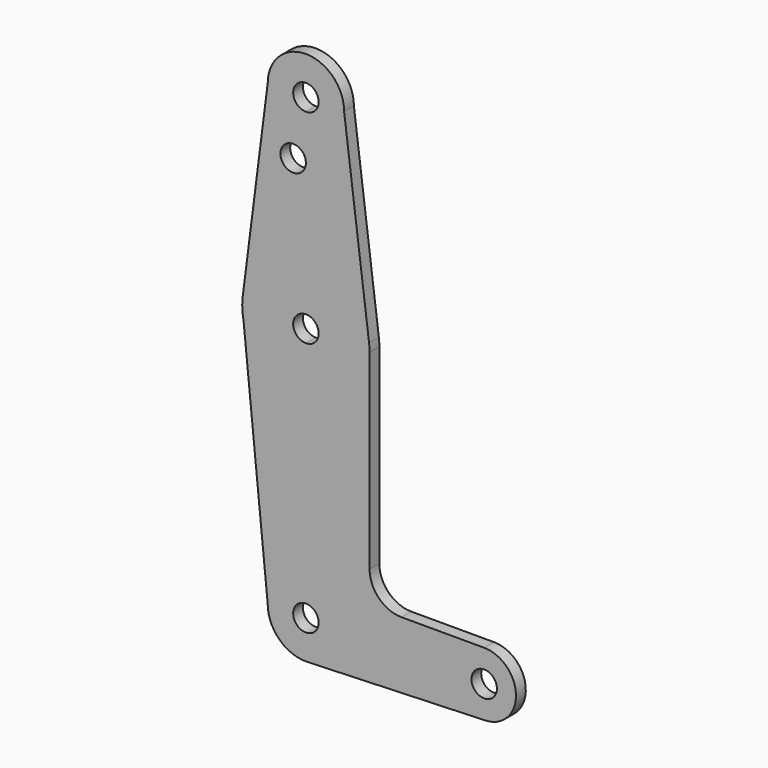
from build123d import *

# Parameters (mm, degrees)
F0_R     = 3.175
F1_DEPTH = 3.048


with BuildPart() as f1:
    # F0 (on Front) → F1 (new body)
    with BuildSketch(Plane.XZ):
        with BuildLine():
            ThreePointArc((3.175, 0), (-2.2450640303, -2.2450640303), (0, 3.175))
            Line((0, 3.175), (0, 9.525))
            ThreePointArc((0, 9.525), (-6.7351920908, 6.7351920908), (-9.525, 0))
            ThreePointArc((-9.525, 0), (-6.7351920908, -6.7351920908), (0, -9.525))
            Line((0, -9.525), (0.6773435479, -9.500885786))
            ThreePointArc((0.6773435479, -9.500885786), (6.9705567315, -6.4912990883), (9.525, 0))
            Line((9.525, 0), (3.175, 0))
        make_face()
        with BuildLine():
            ThreePointArc((-9.525, 0), (-6.7351920908, 6.7351920908), (0, 9.525))
            Line((0, 9.525), (0, 47.625))
            ThreePointArc((0, 47.625), (-10.0526499203, 51.2134278751), (-15.5606435644, 60.3564356436))
            Line((-15.5606435644, 60.3564356436), (-9.525, 0))
        make_face()
        with BuildLine():
            Line((0, 47.625), (0, 9.525))
            ThreePointArc((0, 9.525), (6.7351920908, 6.7351920908), (9.525, 0))
            Line((9.525, 0), (36.5125, 0))
            ThreePointArc((36.5125, 0), (38.8373399243, 5.6126600757), (44.45, 7.9375))
            Line((44.45, 7.9375), (23.8252, 7.9375))
            ThreePointArc((23.8252, 7.9375), (18.2035596682, 10.2660596682), (15.875, 15.8877))
            Line((15.875, 15.8877), (15.875, 63.5))
            ThreePointArc((15.875, 63.5), (11.2253201513, 52.2746798487), (0, 47.625))
        make_face()
        with BuildLine():
            Line((36.5125, 0), (9.525, 0))
            ThreePointArc((9.525, 0), (6.9705567315, -6.4912990883), (0.6773435479, -9.500885786))
            Line((0.6773435479, -9.500885786), (44.7324052746, -7.9324746146))
            ThreePointArc((44.7324052746, -7.9324746146), (38.9380895153, -5.7116327839), (36.5125, 0))
        make_face()
        with BuildLine():
            ThreePointArc((-15.5606435644, 60.3564356436), (-10.0526499203, 51.2134278751), (0, 47.625))
            Line((0, 47.625), (0, 60.325))
            ThreePointArc((0, 60.325), (-3.175, 63.5), (0, 66.675))
            Line((0, 66.675), (0, 79.375))
            ThreePointArc((0, 79.375), (-10.4912828548, 75.4142187767), (-15.7474569047, 65.5082893304))
            ThreePointArc((-15.7474569047, 65.5082893304), (-15.8430821396, 64.5061676396), (-15.875, 63.5))
            Line((-15.875, 63.5), (-15.5606435644, 60.3564356436))
        make_face()
        with BuildLine():
            Line((0, 60.325), (0, 47.625))
            ThreePointArc((0, 47.625), (11.2253201513, 52.2746798487), (15.875, 63.5))
            ThreePointArc((15.875, 63.5), (15.8430821396, 64.5061676396), (15.7474569047, 65.5082893304))
            ThreePointArc((15.7474569047, 65.5082893304), (10.4912828548, 75.4142187767), (0, 79.375))
            Line((0, 79.375), (0, 66.675))
            ThreePointArc((0, 66.675), (2.2450640303, 65.7450640303), (3.175, 63.5))
            ThreePointArc((3.175, 63.5), (2.2450640303, 61.2549359697), (0, 60.325))
        make_face()
        with BuildLine():
            ThreePointArc((44.45, 7.9375), (38.8373399243, 5.6126600757), (36.5125, 0))
            ThreePointArc((36.5125, 0), (38.9380895153, -5.7116327839), (44.7324052746, -7.9324746146))
            ThreePointArc((44.7324052746, -7.9324746146), (50.1616327839, -5.5119104847), (52.3875, 0))
            ThreePointArc((52.3875, 0), (50.0626600757, 5.6126600757), (44.45, 7.9375))
        make_face()
        with BuildLine():
            ThreePointArc((47.625, 0), (44.45, -3.175), (41.275, 0))
            ThreePointArc((41.275, 0), (44.45, 3.175), (47.625, 0))
        make_face(mode=Mode.SUBTRACT)
        with BuildLine():
            ThreePointArc((0, -9.525), (0.3388863295, -9.5189695375), (0.6773435479, -9.500885786))
            Line((0.6773435479, -9.500885786), (0, -9.525))
        make_face()
        with BuildLine():
            ThreePointArc((-15.875, 63.5), (-15.7962153946, 61.9203784605), (-15.5606435644, 60.3564356436))
            Line((-15.5606435644, 60.3564356436), (-15.875, 63.5))
        make_face()
        with BuildLine():
            ThreePointArc((0, 79.375), (10.4912828548, 75.4142187767), (15.7474569047, 65.5082893304))
            Line((15.7474569047, 65.5082893304), (9.525, 114.3))
            ThreePointArc((9.525, 114.3), (6.7351920908, 107.5648079092), (0, 104.775))
            Line((0, 104.775), (0, 99.886942851))
            Line((0, 99.886942851), (0, 79.375))
        make_face()
        with BuildLine():
            ThreePointArc((-15.7474569047, 65.5082893304), (-10.4912828548, 75.4142187767), (0, 79.375))
            Line((0, 79.375), (0, 99.886942851))
            Line((0, 99.886942851), (0, 104.775))
            ThreePointArc((0, 104.775), (-6.7351920908, 107.5648079092), (-9.525, 114.3))
            Line((-9.525, 114.3), (-15.7474569047, 65.5082893304))
        make_face()
        with Locations((-3.175, 99.886942851)):
            Circle(F0_R, mode=Mode.SUBTRACT)
        with BuildLine():
            ThreePointArc((0, 104.775), (6.7351920908, 107.5648079092), (9.525, 114.3))
            ThreePointArc((9.525, 114.3), (0, 123.825), (-9.525, 114.3))
            ThreePointArc((-9.525, 114.3), (-6.7351920908, 107.5648079092), (0, 104.775))
        make_face()
        with BuildLine():
            ThreePointArc((3.175, 114.3), (2.2450640303, 112.0549359697), (0, 111.125))
            ThreePointArc((0, 111.125), (-2.2450640303, 116.5450640303), (3.175, 114.3))
        make_face(mode=Mode.SUBTRACT)
        with BuildLine():
            Line((0, 9.525), (0, 3.175))
            ThreePointArc((0, 3.175), (2.2450640303, 2.2450640303), (3.175, 0))
            Line((3.175, 0), (9.525, 0))
            ThreePointArc((9.525, 0), (6.7351920908, 6.7351920908), (0, 9.525))
        make_face()
    extrude(amount=F1_DEPTH)


solid = f1.part
